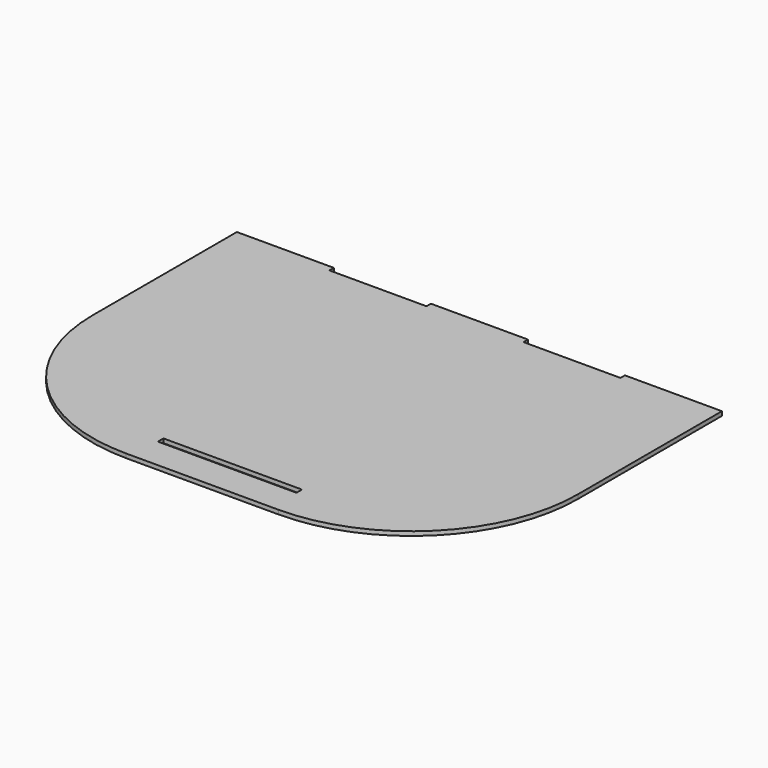
from build123d import *

# Parameters (mm, degrees)
F0_W     = 100
F0_H     = 5
F0_W_2   = 70
F0_H_2   = 4
F1_DEPTH = 3
F2_R     = 120


with BuildPart() as f1:
    # F0 (on Top) → F1 (new body)
    with BuildSketch(Plane.XY):
        Polygon((0, 246), (0, 0), (350, 0), (350, 246), (280, 246), (210, 246), (140, 246), (70, 246), align=None)
        with Locations((175, 25)):
            Rectangle(F0_W, F0_H, mode=Mode.SUBTRACT)
        with Locations((175, 248)):
            Rectangle(F0_W_2, F0_H_2)
        with Locations((315, 248)):
            Rectangle(F0_W_2, F0_H_2)
        with Locations((35, 248)):
            Rectangle(F0_W_2, F0_H_2)
    extrude(amount=F1_DEPTH)

    # F2
    f2_edges = [f1.edges().sort_by_distance(p)[0] for p in [
        (0, 0, 1.5),
        (350, 0, 1.5),
    ]]
    fillet(f2_edges, radius=F2_R)


solid = f1.part
